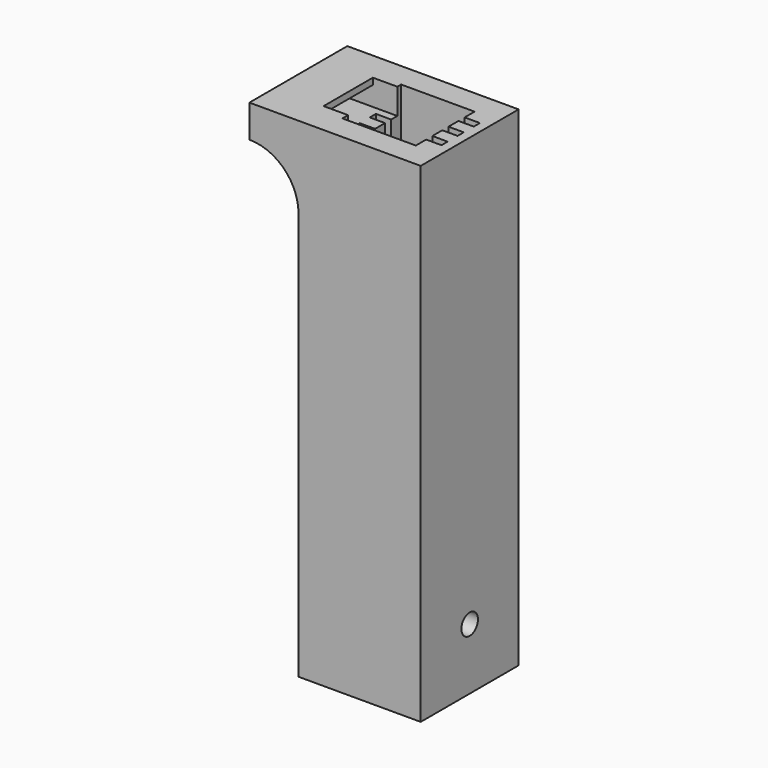
from build123d import *

# Parameters (mm, degrees)
F0_W      = 25.4
F0_H      = 25.4
F1_DEPTH  = 101.6
F2_W      = 15.24
F2_H      = 15.24
F3_DEPTH  = 76.2
F6_START  = -3.175
F5_W      = 3.175
F5_H      = 15.24
F6_DEPTH  = 12.065
F4_R      = 2.15
F7_DEPTH  = 6.6675
F8_R      = 2.15
F9_DEPTH  = 6.6675
F10_W     = 1.27
F10_H     = 1.27
F12_DEPTH = 3.175
F11_W     = 1.27
F11_H     = 1.27
F13_DEPTH = 3.175
F14_W     = 12.7794421278
F14_H     = 4.0193349123
F15_DEPTH = 5.08
F16_W     = 25.4
F16_H     = 6.7783382893
F16_W_2   = 12.7794421278
F16_H_2   = 4.0193349123
F17_DEPTH = 5.08
F18_W     = 25.4
F18_H     = 6.7783382893
F19_DEPTH = 5.08
F20_R     = 2.15
F21_DEPTH = 5.08
F23_DEPTH = 25.4
F24_W     = 21.59
F24_H     = 1.6
F25_DEPTH = 77.47
F26_W     = 12.7794421278
F26_H     = 1.3284322977
F27_DEPTH = 5.08


with BuildPart() as f1:
    # F0 (on Top) → F1 (new body)
    with BuildSketch(Plane.XY):
        with Locations((12.7, 12.7)):
            Rectangle(F0_W, F0_H)
    extrude(amount=F1_DEPTH)

    # F2 (on face) → F3 (cut)
    with BuildSketch(Plane.XY.offset(101.6)):
        with Locations((12.7, 12.7)):
            Rectangle(F2_W, F2_H)
    extrude(amount=-F3_DEPTH, mode=Mode.SUBTRACT)

    # F5 (on face) → F6 (cut)
    with BuildSketch(Plane.XY.offset(25.4).offset(F6_START)):
        with Locations((17.145, 12.7)):
            Rectangle(F5_W, F5_H)
        with Locations((8.255, 12.7)):
            Rectangle(F5_W, F5_H)
    extrude(amount=-F6_DEPTH, mode=Mode.SUBTRACT)

    # F4 (on face) → F7 (cut, through all)
    with BuildSketch(Plane.YZ.offset(25.4)):
        with Locations((12.7, 12.7)):
            Circle(F4_R)
    extrude(amount=-F7_DEPTH, mode=Mode.SUBTRACT)

    # F8 (on face) → F9 (cut, through all)
    with BuildSketch(Plane(origin=(0, 0, 0), x_dir=(0, -1, 0), z_dir=(-1, 0, 0))):
        with Locations((-12.7, 12.7)):
            Circle(F8_R)
    extrude(amount=-F9_DEPTH, mode=Mode.SUBTRACT)

    # F10 (on face) → F12 (cut, through all)
    with BuildSketch(Plane.XY.offset(25.4)):
        with Locations((17.2085, 18.923)):
            Rectangle(F10_W, F10_H)
        with Locations((17.2085, 10.541)):
            Rectangle(F10_W, F10_H)
    extrude(amount=-F12_DEPTH, mode=Mode.SUBTRACT)

    # F11 (on face) → F13 (cut, through all)
    with BuildSketch(Plane.XY.offset(25.4)):
        with Locations((8.1467080774, 6.477)):
            Rectangle(F11_W, F11_H)
        with Locations((8.1467080774, 14.859)):
            Rectangle(F11_W, F11_H)
    extrude(amount=-F13_DEPTH, mode=Mode.SUBTRACT)

    # F14 (on face) → F15 (cut, through all)
    with BuildSketch(Plane(origin=(0, 0, 0), x_dir=(0, -1, 0), z_dir=(-1, 0, 0))):
        with Locations((-12.943365844, 98.2619002461)):
            Rectangle(F14_W, F14_H)
    extrude(amount=-F15_DEPTH, mode=Mode.SUBTRACT)

    # F16 (on face) → F17 (join)
    with BuildSketch(Plane(origin=(0, 0, 0), x_dir=(0, -1, 0), z_dir=(-1, 0, 0))):
        with Locations((-12.7, 98.2108308554)):
            Rectangle(F16_W, F16_H)
        with Locations((-12.943365844, 98.2619002461)):
            Rectangle(F16_W_2, F16_H_2, mode=Mode.SUBTRACT)
    extrude(amount=F17_DEPTH)

    # F18 (on face) → F19 (join)
    with BuildSketch(Plane(origin=(-5.08, 0, 0), x_dir=(0, -1, 0), z_dir=(-1, 0, 0))):
        with Locations((-12.7, 98.2108308554)):
            Rectangle(F18_W, F18_H)
    extrude(amount=F19_DEPTH)

    # F20 (on face) → F21 (cut)
    with BuildSketch(Plane(origin=(-10.16, 0, 0), x_dir=(0, -1, 0), z_dir=(-1, 0, 0))):
        with Locations((-12.7924755216, 98.2300043106)):
            Circle(F20_R)
    extrude(amount=-F21_DEPTH, mode=Mode.SUBTRACT)

    # F22 (on face) → F23 (join, through all)
    with BuildSketch(Plane.XZ):
        with BuildLine():
            ThreePointArc((-10.16, 94.8216617107), (-3.2465860676, 92.1186283067), (0, 85.4431986809))
            Line((0, 85.4431986809), (0, 94.8216617107))
            Line((0, 94.8216617107), (-10.16, 94.8216617107))
        make_face()
    extrude(amount=-F23_DEPTH)

    # F24 (on face) → F25 (cut)
    with BuildSketch(Plane.XY.offset(101.6)):
        with Locations((12.7, 16.93682)):
            Rectangle(F24_W, F24_H)
        with Locations((12.7, 8.57046)):
            Rectangle(F24_W, F24_H)
        with Locations((12.7, 12.75364)):
            Rectangle(F24_W, F24_H)
    extrude(amount=-F25_DEPTH, mode=Mode.SUBTRACT)

    # F26 (on face) → F27 (cut)
    with BuildSketch(Plane.YZ.offset(5.08)):
        with Locations((12.943365844, 100.9357838511)):
            Rectangle(F26_W, F26_H)
    extrude(amount=-F27_DEPTH, mode=Mode.SUBTRACT)


solid = f1.part
